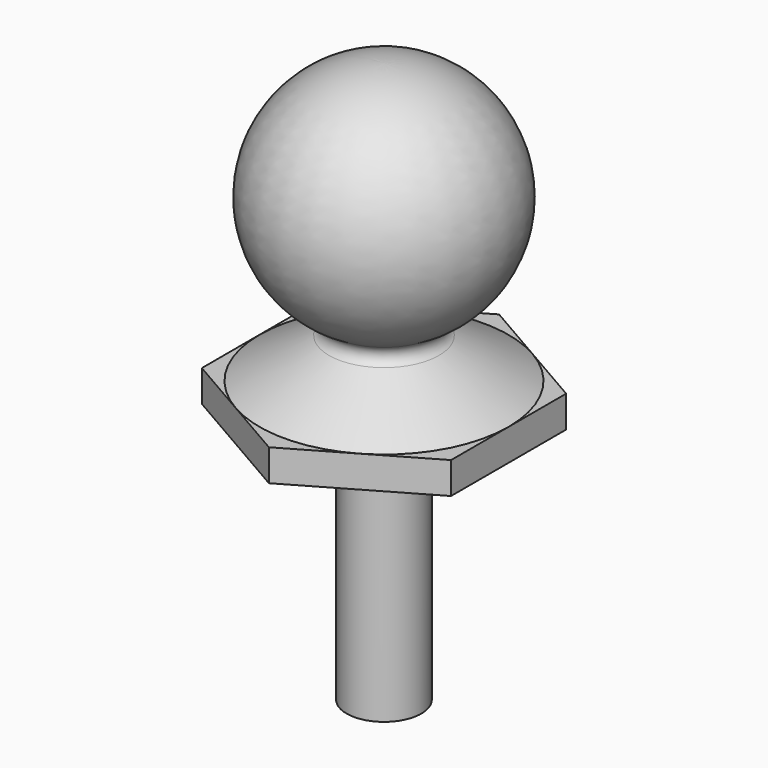
from build123d import *

# Parameters (mm, degrees)
F3_DEPTH = 1.27


with BuildPart() as f1:
    # F0 (on Front) → F1 (revolve)
    with BuildSketch(Plane.XZ):
        with BuildLine():
            Line((0, 0), (0, 12.5))
            ThreePointArc((0, 12.5), (-4.584632, 8.918143), (-2.218366, 3.603133))
            ThreePointArc((-2.218366, 3.603133), (-2.000063, 3.246878), (-2.20581, 2.883226))
            Line((-2.20581, 2.883226), (-5, 1.27))
            Line((-5, 1.27), (-5, 0))
            Line((-5, 0), (-1.5, 0))
            Line((-1.5, 0), (-1.5, -10))
            Line((-1.5, -10), (0, -10))
            Line((0, -10), (0, 0))
        make_face()
    revolve(axis=Axis((0, 0, 0.226223), (0, 0, -1)))

    # F2 (on Top) → F3 (join)
    with BuildSketch(Plane.XY):
        Polygon((5, -2.886751), (5, 2.886751), (0, 5.773503), (-5, 2.886751), (-5, -2.886751), (0, -5.773503), align=None)
    extrude(amount=F3_DEPTH)


solid = f1.part
